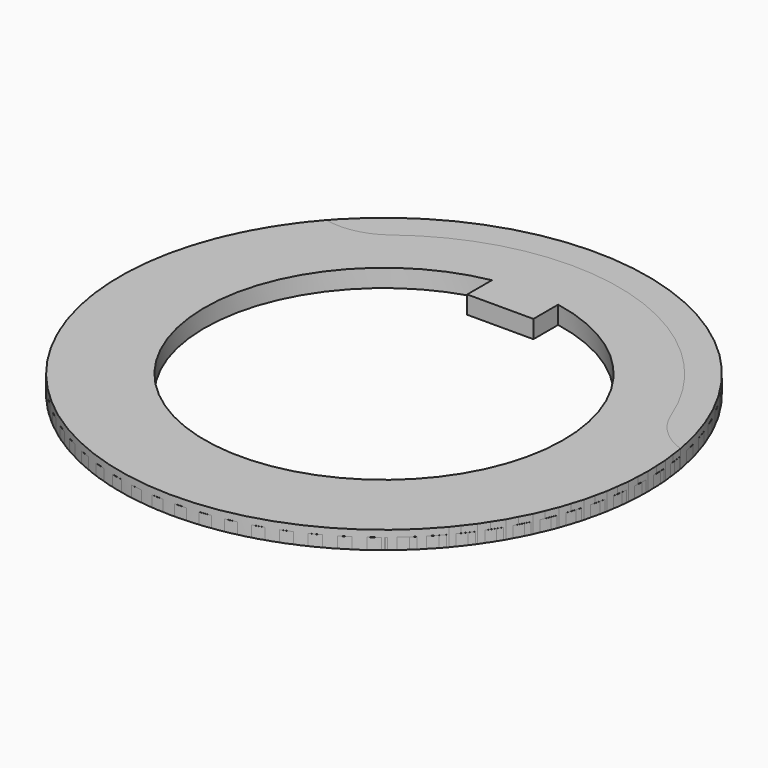
from build123d import *

# Parameters (mm, degrees)
F1_DEPTH = 0.5
F3_DEPTH = 0.8
F5_DEPTH = 0.5
F7_DEPTH = 0.8
F8_SCALE = 3


with BuildPart() as f1:
    # F0 (on Top) → F1 (new body)
    with BuildSketch(Plane.XY):
        with BuildLine():
            Line((6.8387676217, -9.4273056542), (7.4058337822, -9.18660035))
            ThreePointArc((7.4058337822, -9.18660035), (3.1162609999, 11.3810771626), (-11.0527318331, -4.1324470989))
            ThreePointArc((-11.0527318331, -4.1324470989), (-9.8368762603, -4.5924206502), (-8.9297485056, -5.5235488253))
            ThreePointArc((-8.9297485056, -5.5235488253), (-2.6230960634, -10.167072688), (5.1428823598, -9.1542755603))
            ThreePointArc((5.1428823598, -9.1542755603), (6.0384623822, -8.9948981328), (6.8387676217, -9.4273056542))
        make_face()
        with BuildLine():
            ThreePointArc((1.48, 7.8807323422), (0, -8.0185), (-1.48, 7.8807323422))
            Line((-1.48, 7.8807323422), (-1.48, 6.5))
            Line((-1.48, 6.5), (1.48, 6.5))
            Line((1.48, 6.5), (1.48, 7.8807323422))
        make_face(mode=Mode.SUBTRACT)
    extrude(amount=F1_DEPTH)


with BuildPart() as f3:
    # F2 (on Top) → F3 (new body)
    with BuildSketch(Plane.XY):
        with BuildLine():
            ThreePointArc((6.537965625, -8.2161429811), (7.7063762874, -7.6463211092), (9.0061431434, -7.6242629598))
            ThreePointArc((9.0061431434, -7.6242629598), (1.8204956547, 11.658721867), (-10.9017784836, -4.5156645019))
            ThreePointArc((-10.9017784836, -4.5156645019), (-9.6706107317, -4.9329251022), (-8.7315396701, -5.8318277572))
            ThreePointArc((-8.7315396701, -5.8318277572), (-1.6199325741, -10.374286407), (6.537965625, -8.2161429811))
        make_face()
        with BuildLine():
            ThreePointArc((1.48, 7.8807323422), (0, -8.0185), (-1.48, 7.8807323422))
            Line((-1.48, 7.8807323422), (-1.48, 6.5))
            Line((-1.48, 6.5), (1.48, 6.5))
            Line((1.48, 6.5), (1.48, 7.8807323422))
        make_face(mode=Mode.SUBTRACT)
    extrude(amount=F3_DEPTH)


with BuildPart() as f5:
    # F4 (on Top) → F5 (new body)
    with BuildSketch(Plane.XY):
        with BuildLine():
            Line((-6.6539702746, 9.5057474742), (-7.4058337822, 9.18660035))
            ThreePointArc((-7.4058337822, 9.18660035), (-4.3367613017, -10.974174293), (11.6851632112, 1.6422425913))
            ThreePointArc((11.6851632112, 1.6422425913), (10.597684768, 2.3544722436), (9.913592586, 3.4598673442))
            ThreePointArc((9.913592586, 3.4598673442), (3.6517736611, 9.8445187352), (-5.2590021182, 9.0880634197))
            ThreePointArc((-5.2590021182, 9.0880634197), (-6.046699252, 8.995614702), (-6.6539702746, 9.5057474742))
        make_face()
        with BuildLine():
            ThreePointArc((1.48, 7.8807323422), (0, -8.0185), (-1.48, 7.8807323422))
            Line((-1.48, 7.8807323422), (-1.48, 6.5))
            Line((-1.48, 6.5), (1.48, 6.5))
            Line((1.48, 6.5), (1.48, 7.8807323422))
        make_face(mode=Mode.SUBTRACT)
    extrude(amount=F5_DEPTH)


with BuildPart() as f7:
    # F6 (on Top) → F7 (new body)
    with BuildSketch(Plane.XY):
        with BuildLine():
            ThreePointArc((-6.3571755517, 8.3568127301), (-7.5377387626, 7.8126152046), (-8.8376775053, 7.8189165689))
            ThreePointArc((-8.8376775053, 7.8189165689), (-3.2029973084, -11.3569717902), (11.6207314855, 2.0490484965))
            ThreePointArc((11.6207314855, 2.0490484965), (10.5090590485, 2.7228918274), (9.7868058643, 3.8037390783))
            ThreePointArc((9.7868058643, 3.8037390783), (2.8501247236, 10.1057799828), (-6.3571755517, 8.3568127301))
        make_face()
        with BuildLine():
            ThreePointArc((1.48, 7.8807323422), (0, -8.0185), (-1.48, 7.8807323422))
            Line((-1.48, 7.8807323422), (-1.48, 6.5))
            Line((-1.48, 6.5), (1.48, 6.5))
            Line((1.48, 6.5), (1.48, 7.8807323422))
        make_face(mode=Mode.SUBTRACT)
    extrude(amount=F7_DEPTH)


with BuildPart() as f1_1:
    # F8: moved
    add(f1.part.scale(F8_SCALE))


with BuildPart() as f3_1:
    # F8: moved
    add(f3.part.scale(F8_SCALE))


with BuildPart() as f5_1:
    # F8: moved
    add(f5.part.scale(F8_SCALE))


with BuildPart() as f7_1:
    # F8: moved
    add(f7.part.scale(F8_SCALE))


solid = Compound([f1_1.part, f3_1.part, f5_1.part, f7_1.part])
